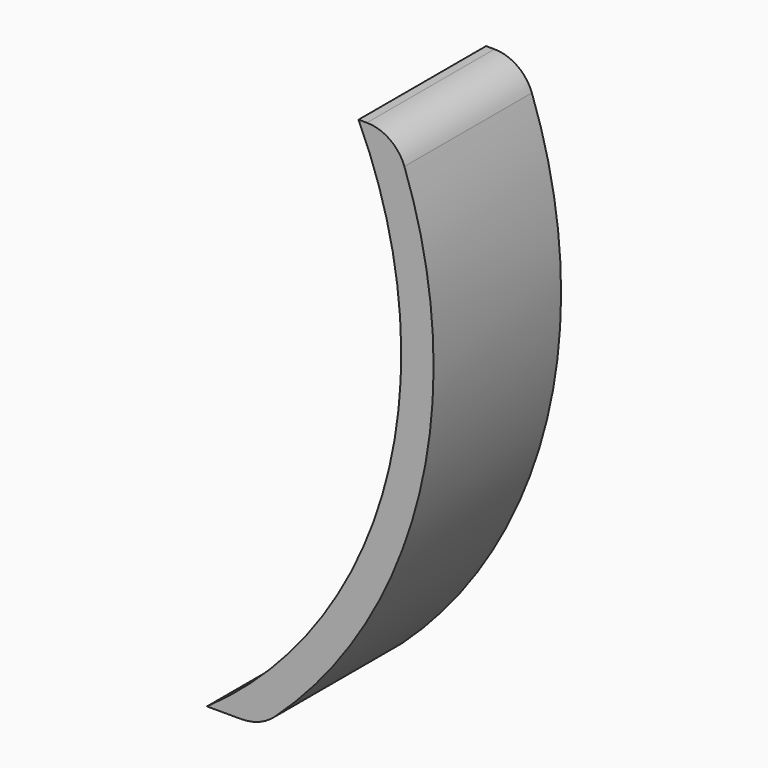
from build123d import *

# Parameters (mm, degrees)
F1_DEPTH = 32


with BuildPart() as f1:
    # F0 (on Front) → F1 (new body)
    with BuildSketch(Plane.XZ):
        with BuildLine():
            ThreePointArc((82.927163, 38.669571), (88.382213, -23.681943), (52.482244, -74.952412))
            Line((52.482244, -74.952412), (59.373261, -74.952412))
            ThreePointArc((59.373261, -74.952412), (62.991993, -74.274685), (66.120223, -72.333368))
            ThreePointArc((66.120223, -72.333368), (95.161877, -23.414036), (92.134269, 33.395755))
            ThreePointArc((92.134269, 33.395755), (89.206062, 37.219742), (84.613104, 38.669571))
            Line((84.613104, 38.669571), (82.927163, 38.669571))
        make_face()
    extrude(amount=F1_DEPTH)


solid = f1.part
